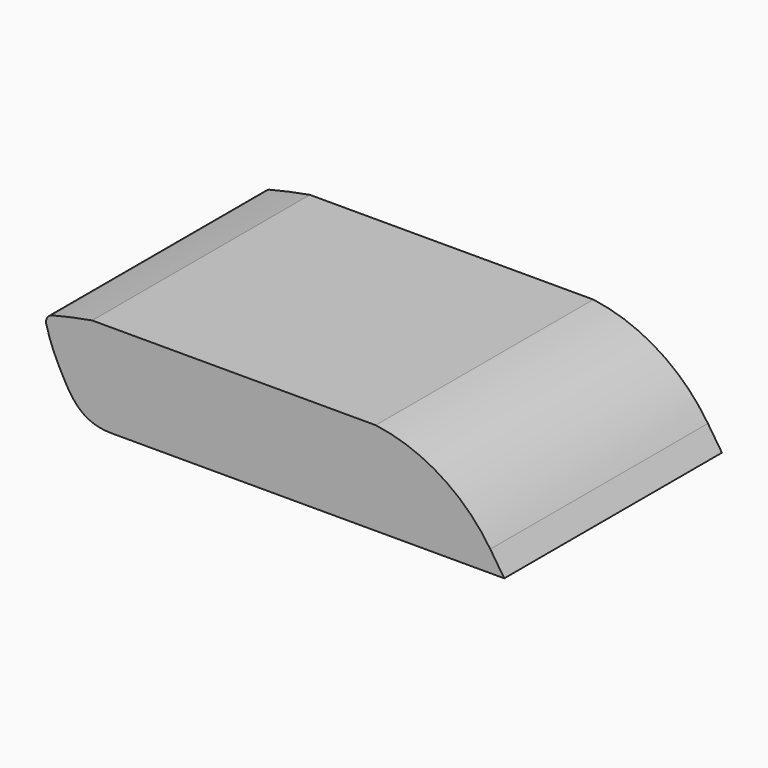
from build123d import *

# Parameters (mm, degrees)
F1_DEPTH = 100
F3_DEPTH = 100.0010001


with BuildPart() as f1:
    # F0 (on Front) → F1 (new body)
    with BuildSketch(Plane.XZ):
        with BuildLine():
            add(Edge.make_bspline(
                [(-62.5, -20), (-73.1268525124, -20), (-80.4059031562, -7.7978468302), (-84.9233715293, 1.839947371), (-86.2586413814, 7.0207393153)],
                knots=[0, 0, 0, 0, 0.5386149438, 1, 1, 1, 1], degree=3))
            Line((-62.5, -20), (81.9273708606, -20))
            ThreePointArc((81.9273708606, -20), (85.2753510448, -18.1888418596), (85.5914704468, -14.3955143432))
            add(Edge.make_bspline(
                [(85.5914704468, -14.3955143432), (80.4923521492, -2.7508622611), (61.7807143057, 13.6061614536), (50.4547609094, 18.5615463365), (-2.3409408703, 16.1806235265), (-42.1157825532, 18.1611356538), (-69.9472957559, 14.7146056584), (-84.4380939102, 11.0206353633)],
                knots=[0.0286493497, 0.0286493497, 0.0286493497, 0.0286493497, 0.2113092276, 0.3338194515, 0.5678984107, 0.7846695753, 1, 1, 1, 1], degree=3))
            ThreePointArc((-84.4380939102, 11.0206353633), (-86.219889206, 9.4173592411), (-86.2586413814, 7.0207393153))
        make_face()
    extrude(amount=F1_DEPTH)

    # F2 (on face) → F3 (cut, through all)
    with BuildSketch(Plane.XZ.offset(100)):
        with BuildLine():
            Line((76.7807810103, -12.2087626863), (81.9273708606, -20))
            Line((81.9273708606, -20), (89.4811376929, -23.3435314149))
            Line((89.4811376929, -23.3435314149), (91.3648977876, -5.6361360475))
            Line((91.3648977876, -5.6361360475), (72.1504986286, 22.6203482598))
            Line((72.1504986286, 22.6203482598), (18.2747989893, 25.8227474988))
            Line((18.2747989893, 25.8227474988), (-74.9715939164, 17.3458047211))
            Line((-74.9715939164, 17.3458047211), (-69.5344796887, 14.1921793268))
            Line((-69.5344796887, 14.1921793268), (34.6666465938, 14.1921793268))
            ThreePointArc((34.6666465938, 14.1921793268), (58.5861493226, 5.5577951747), (76.7807810103, -12.2087626863))
        make_face()
    extrude(amount=-F3_DEPTH, mode=Mode.SUBTRACT)


solid = f1.part
